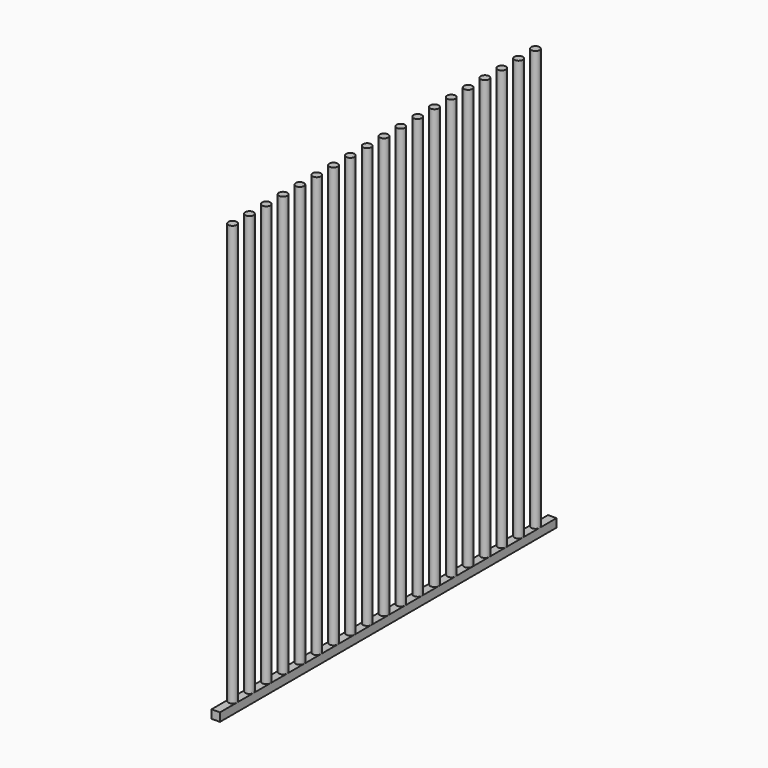
from build123d import *

# Parameters (mm, degrees)
F0_W     = 20
F0_H     = 20
F1_DEPTH = 1000
F2_R     = 10
F3_DEPTH = 1000


with BuildPart() as f1:
    # F0 (on Front) → F1 (new body)
    with BuildSketch(Plane.XZ):
        with Locations((10, 10)):
            Rectangle(F0_W, F0_H)
    extrude(amount=F1_DEPTH)

    # F2 (on face) → F3 (join)
    with BuildSketch(Plane.XY.offset(20)):
        with Locations((10, -50)):
            Circle(F2_R)
        with Locations((10, -100)):
            Circle(F2_R)
        with Locations((10, -150)):
            Circle(F2_R)
        with Locations((10, -200)):
            Circle(F2_R)
        with Locations((10, -250)):
            Circle(F2_R)
        with Locations((10, -300)):
            Circle(F2_R)
        with Locations((10, -350)):
            Circle(F2_R)
        with Locations((10, -400)):
            Circle(F2_R)
        with Locations((10, -450)):
            Circle(F2_R)
        with Locations((10, -500)):
            Circle(F2_R)
        with Locations((10, -550)):
            Circle(F2_R)
        with Locations((10, -600)):
            Circle(F2_R)
        with Locations((10, -650)):
            Circle(F2_R)
        with Locations((10, -700)):
            Circle(F2_R)
        with Locations((10, -750)):
            Circle(F2_R)
        with Locations((10, -800)):
            Circle(F2_R)
        with Locations((10, -850)):
            Circle(F2_R)
        with Locations((10, -900)):
            Circle(F2_R)
        with Locations((10, -950)):
            Circle(F2_R)
    extrude(amount=F3_DEPTH)


solid = f1.part
